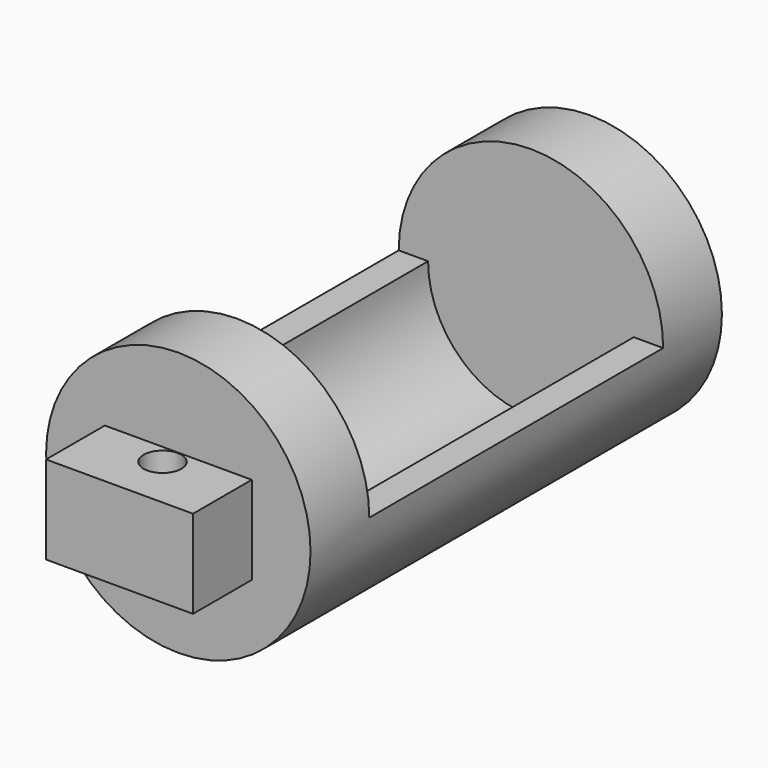
from build123d import *

# Parameters (mm, degrees)
F0_R     = 9
F1_DEPTH = 35
F4_DEPTH = 25
F5_W     = 10
F5_H     = 6
F6_DEPTH = 5
F7_R     = 1.2910039075
F8_DEPTH = 25


with BuildPart() as f1:
    # F0 (on Front) → F1 (new body)
    with BuildSketch(Plane.XZ):
        Circle(F0_R)
    extrude(amount=F1_DEPTH)

    # F3 (on offset) → F4 (cut)
    with BuildSketch(Plane.XZ.offset(30)):
        with BuildLine():
            ThreePointArc((-7, 0), (0, 7), (7, 0))
            Line((7, 0), (10, 0))
            Line((10, 0), (10, 10))
            Line((10, 10), (-10, 10))
            Line((-10, 10), (-10, 0))
            Line((-10, 0), (-7, 0))
        make_face()
        with BuildLine():
            ThreePointArc((-7, 0), (0, -7), (7, 0))
            Line((7, 0), (-7, 0))
        make_face()
        with BuildLine():
            Line((-7, 0), (7, 0))
            ThreePointArc((7, 0), (0, 7), (-7, 0))
        make_face()
    extrude(amount=-F4_DEPTH, mode=Mode.SUBTRACT)

    # F5 (on face) → F6 (join)
    with BuildSketch(Plane.XZ.offset(35)):
        Rectangle(F5_W, F5_H)
    extrude(amount=F6_DEPTH)

    # F7 (on face) → F8 (cut)
    with BuildSketch(Plane.XY.offset(3)):
        with Locations((0, -36.3444052637)):
            Circle(F7_R)
    extrude(amount=-F8_DEPTH, mode=Mode.SUBTRACT)


solid = f1.part
